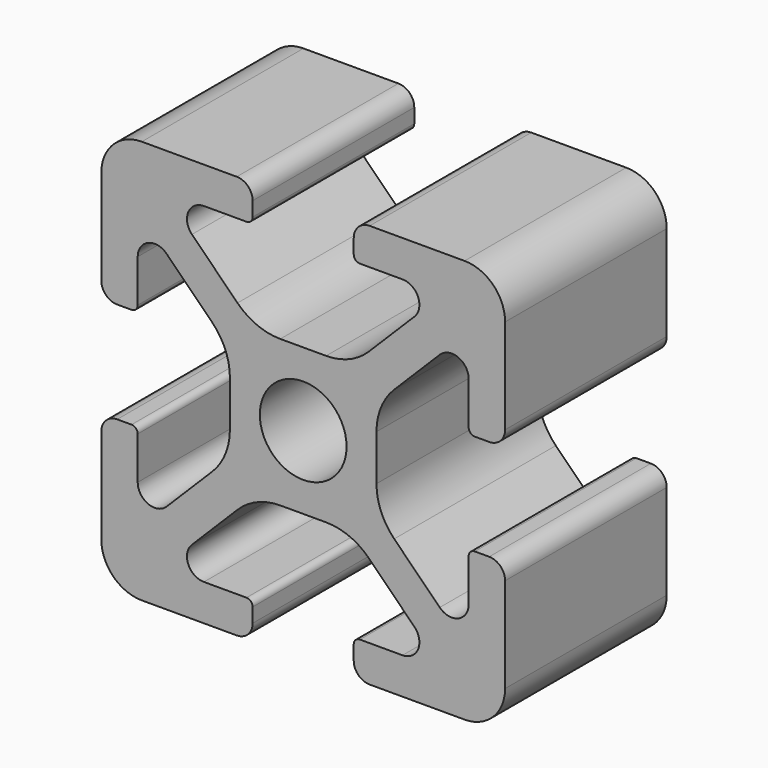
from build123d import *

# Parameters (mm, degrees)
F0_R     = 2.1463
F1_DEPTH = 10


with BuildPart() as f1:
    # F0 (on Front) → F1 (new body)
    with BuildSketch(Plane.XZ):
        with BuildLine():
            Line((-3.2893, 9.9949), (-7.9883, 9.9949))
            ThreePointArc((-7.9883, 9.9949), (-9.40718, 9.40718), (-9.9949, 7.9883))
            Line((-9.9949, 7.9883), (-9.9949, 3.2893))
            ThreePointArc((-9.9949, 3.2893), (-9.764276, 2.732524), (-9.2075, 2.5019))
            Line((-9.2075, 2.5019), (-8.4963, 2.5019))
            ThreePointArc((-8.4963, 2.5019), (-8.280774, 2.591174), (-8.1915, 2.8067))
            Line((-8.1915, 2.8067), (-8.1915, 4.9149))
            ThreePointArc((-8.1915, 4.9149), (-7.674065, 5.689296), (-6.760603, 5.507597))
            Line((-6.760603, 5.507597), (-4.505766, 3.25276))
            ThreePointArc((-4.505766, 3.25276), (-3.856054, 2.280398), (-3.627906, 1.133419))
            Line((-3.627906, 1.133419), (-3.627906, -1.133419))
            ThreePointArc((-3.627906, -1.133419), (-3.856054, -2.280398), (-4.505766, -3.25276))
            Line((-4.505766, -3.25276), (-6.760603, -5.507597))
            ThreePointArc((-6.760603, -5.507597), (-7.674065, -5.689296), (-8.1915, -4.9149))
            Line((-8.1915, -4.9149), (-8.1915, -2.8067))
            ThreePointArc((-8.1915, -2.8067), (-8.280774, -2.591174), (-8.4963, -2.5019))
            Line((-8.4963, -2.5019), (-9.2075, -2.5019))
            ThreePointArc((-9.2075, -2.5019), (-9.764276, -2.732524), (-9.9949, -3.2893))
            Line((-9.9949, -3.2893), (-9.9949, -7.9883))
            ThreePointArc((-9.9949, -7.9883), (-9.40718, -9.40718), (-7.9883, -9.9949))
            Line((-7.9883, -9.9949), (-3.2893, -9.9949))
            ThreePointArc((-3.2893, -9.9949), (-2.732524, -9.764276), (-2.5019, -9.2075))
            Line((-2.5019, -9.2075), (-2.5019, -8.4963))
            ThreePointArc((-2.5019, -8.4963), (-2.591174, -8.280774), (-2.8067, -8.1915))
            Line((-2.8067, -8.1915), (-4.9149, -8.1915))
            ThreePointArc((-4.9149, -8.1915), (-5.689296, -7.674065), (-5.507597, -6.760603))
            Line((-5.507597, -6.760603), (-3.25276, -4.505766))
            ThreePointArc((-3.25276, -4.505766), (-2.280398, -3.856054), (-1.133419, -3.627906))
            Line((-1.133419, -3.627906), (1.133419, -3.627906))
            ThreePointArc((1.133419, -3.627906), (2.280398, -3.856054), (3.25276, -4.505766))
            Line((3.25276, -4.505766), (5.507597, -6.760603))
            ThreePointArc((5.507597, -6.760603), (5.689296, -7.674065), (4.9149, -8.1915))
            Line((4.9149, -8.1915), (2.8067, -8.1915))
            ThreePointArc((2.8067, -8.1915), (2.591174, -8.280774), (2.5019, -8.4963))
            Line((2.5019, -8.4963), (2.5019, -9.2075))
            ThreePointArc((2.5019, -9.2075), (2.732524, -9.764276), (3.2893, -9.9949))
            Line((3.2893, -9.9949), (7.9883, -9.9949))
            ThreePointArc((7.9883, -9.9949), (9.40718, -9.40718), (9.9949, -7.9883))
            Line((9.9949, -7.9883), (9.9949, -3.2893))
            ThreePointArc((9.9949, -3.2893), (9.764276, -2.732524), (9.2075, -2.5019))
            Line((9.2075, -2.5019), (8.4963, -2.5019))
            ThreePointArc((8.4963, -2.5019), (8.280774, -2.591174), (8.1915, -2.8067))
            Line((8.1915, -2.8067), (8.1915, -4.9149))
            ThreePointArc((8.1915, -4.9149), (7.674065, -5.689296), (6.760603, -5.507597))
            Line((6.760603, -5.507597), (4.505766, -3.25276))
            ThreePointArc((4.505766, -3.25276), (3.856054, -2.280398), (3.627906, -1.133419))
            Line((3.627906, -1.133419), (3.627906, 1.133419))
            ThreePointArc((3.627906, 1.133419), (3.856054, 2.280398), (4.505766, 3.25276))
            Line((4.505766, 3.25276), (6.760603, 5.507597))
            ThreePointArc((6.760603, 5.507597), (7.674065, 5.689296), (8.1915, 4.9149))
            Line((8.1915, 4.9149), (8.1915, 2.8067))
            ThreePointArc((8.1915, 2.8067), (8.280774, 2.591174), (8.4963, 2.5019))
            Line((8.4963, 2.5019), (9.2075, 2.5019))
            ThreePointArc((9.2075, 2.5019), (9.764276, 2.732524), (9.9949, 3.2893))
            Line((9.9949, 3.2893), (9.9949, 7.9883))
            ThreePointArc((9.9949, 7.9883), (9.40718, 9.40718), (7.9883, 9.9949))
            Line((7.9883, 9.9949), (3.2893, 9.9949))
            ThreePointArc((3.2893, 9.9949), (2.732524, 9.764276), (2.5019, 9.2075))
            Line((2.5019, 9.2075), (2.5019, 8.4963))
            ThreePointArc((2.5019, 8.4963), (2.591174, 8.280774), (2.8067, 8.1915))
            Line((2.8067, 8.1915), (4.9149, 8.1915))
            ThreePointArc((4.9149, 8.1915), (5.689296, 7.674065), (5.507597, 6.760603))
            Line((5.507597, 6.760603), (3.25276, 4.505766))
            ThreePointArc((3.25276, 4.505766), (2.280398, 3.856054), (1.133419, 3.627906))
            Line((1.133419, 3.627906), (-1.133419, 3.627906))
            ThreePointArc((-1.133419, 3.627906), (-2.280398, 3.856054), (-3.25276, 4.505766))
            Line((-3.25276, 4.505766), (-5.507597, 6.760603))
            ThreePointArc((-5.507597, 6.760603), (-5.689296, 7.674065), (-4.9149, 8.1915))
            Line((-4.9149, 8.1915), (-2.8067, 8.1915))
            ThreePointArc((-2.8067, 8.1915), (-2.591174, 8.280774), (-2.5019, 8.4963))
            Line((-2.5019, 8.4963), (-2.5019, 9.2075))
            ThreePointArc((-2.5019, 9.2075), (-2.732524, 9.764276), (-3.2893, 9.9949))
        make_face()
        Circle(F0_R, mode=Mode.SUBTRACT)
    extrude(amount=F1_DEPTH)


solid = f1.part
